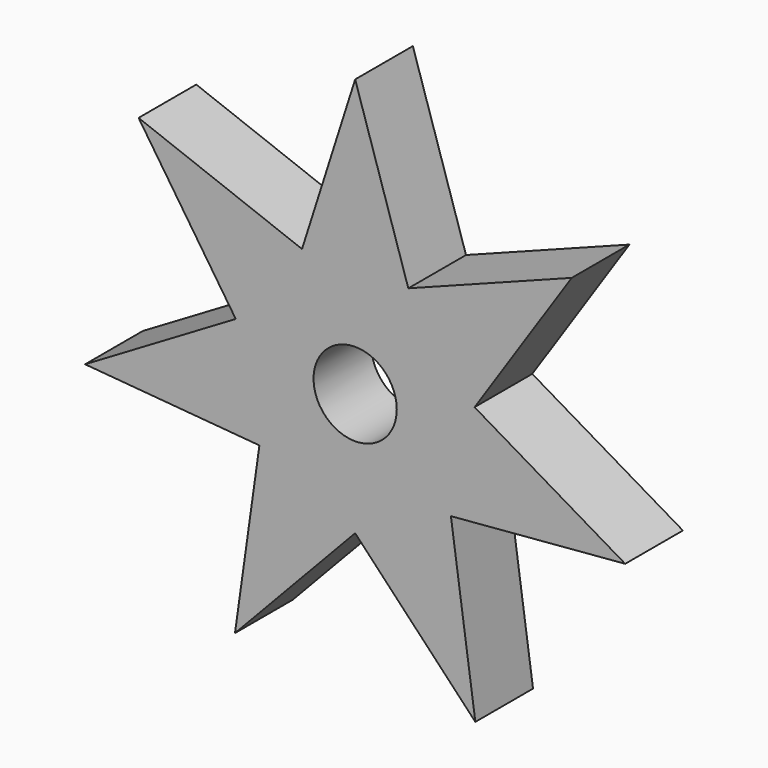
from build123d import *

# Parameters (mm, degrees)
F0_R     = 4.0005
F1_DEPTH = 6.9342


with BuildPart() as f1:
    # F0 (on Front) → F1 (new body)
    with BuildSketch(Plane.XZ):
        with BuildLine():
            ThreePointArc((10.9490814011, 1.8229581763), (11.0620561781, 0.9145890619), (11.0998, 0))
            ThreePointArc((11.0998, 0), (10.5811921219, -3.3531974769), (9.0738295647, -6.3930569426))
            Line((9.0738295647, -6.3930569426), (9.2078226807, -7.3429935574))
            Line((9.2078226807, -7.3429935574), (25.9687935512, -5.9272076659))
            Line((25.9687935512, -5.9272076659), (11.4819670775, 2.6206840586))
            Line((11.4819670775, 2.6206840586), (10.9490814011, 1.8229581763))
        make_face()
        with BuildLine():
            ThreePointArc((10.6557333843, 3.1081998138), (10.8215048396, 2.4699378627), (10.9490814011, 1.8229581763))
            Line((10.9490814011, 1.8229581763), (11.4819670775, 2.6206840586))
            Line((11.4819670775, 2.6206840586), (10.6557333843, 3.1081998138))
        make_face()
        with BuildLine():
            Line((9.2078226807, -7.3429935574), (9.0738295647, -6.3930569426))
            ThreePointArc((9.0738295647, -6.3930569426), (8.6781730891, -6.9206121027), (8.2518866868, -7.4237407113))
            Line((8.2518866868, -7.4237407113), (9.2078226807, -7.3429935574))
        make_face()
        with BuildLine():
            ThreePointArc((5.4013944998, 9.6969323756), (8.6781730891, 6.9206121027), (10.6557333843, 3.1081998138))
            Line((10.6557333843, 3.1081998138), (11.4819670775, 2.6206840586))
            Line((11.4819670775, 2.6206840586), (20.8253555021, 16.6076668269))
            Line((20.8253555021, 16.6076668269), (5.1099560755, 10.6109331263))
            Line((5.1099560755, 10.6109331263), (5.4013944998, 9.6969323756))
        make_face()
        with BuildLine():
            Line((9.2078226807, -7.3429935574), (8.2518866868, -7.4237407113))
            ThreePointArc((8.2518866868, -7.4237407113), (4.8160227275, -10.0005742399), (0.6591470105, -11.0802114266))
            Line((0.6591470105, -11.0802114266), (0, -11.777247255))
            Line((0, -11.777247255), (11.5572003895, -23.9987738932))
            Line((11.5572003895, -23.9987738932), (9.2078226807, -7.3429935574))
        make_face()
        with BuildLine():
            ThreePointArc((4.2136526282, 10.2689187147), (4.8160227275, 10.0005742399), (5.4013944998, 9.6969323756))
            Line((5.4013944998, 9.6969323756), (5.1099560755, 10.6109331263))
            Line((5.1099560755, 10.6109331263), (4.2136526282, 10.2689187147))
        make_face()
        with BuildLine():
            Line((0, -11.777247255), (0.6591470105, -11.0802114266))
            ThreePointArc((0.6591470105, -11.0802114266), (0, -11.0998), (-0.6591470105, -11.0802114266))
            Line((-0.6591470105, -11.0802114266), (0, -11.777247255))
        make_face()
        with BuildLine():
            ThreePointArc((-4.2136526282, 10.2689187147), (0, 11.0998), (4.2136526282, 10.2689187147))
            Line((4.2136526282, 10.2689187147), (5.1099560755, 10.6109331263))
            Line((5.1099560755, 10.6109331263), (0, 26.6366294644))
            Line((0, 26.6366294644), (-5.1099560755, 10.6109331263))
            Line((-5.1099560755, 10.6109331263), (-4.2136526282, 10.2689187147))
        make_face()
        with BuildLine():
            Line((0, -11.777247255), (-0.6591470105, -11.0802114266))
            ThreePointArc((-0.6591470105, -11.0802114266), (-4.8160227275, -10.0005742399), (-8.2518866868, -7.4237407113))
            Line((-8.2518866868, -7.4237407113), (-9.2078226807, -7.3429935574))
            Line((-9.2078226807, -7.3429935574), (-11.5572003895, -23.9987738932))
            Line((-11.5572003895, -23.9987738932), (0, -11.777247255))
        make_face()
        with BuildLine():
            ThreePointArc((-5.4013944998, 9.6969323756), (-4.8160227275, 10.0005742399), (-4.2136526282, 10.2689187147))
            Line((-4.2136526282, 10.2689187147), (-5.1099560755, 10.6109331263))
            Line((-5.1099560755, 10.6109331263), (-5.4013944998, 9.6969323756))
        make_face()
        with BuildLine():
            Line((-9.2078226807, -7.3429935574), (-8.2518866868, -7.4237407113))
            ThreePointArc((-8.2518866868, -7.4237407113), (-8.6781730891, -6.9206121027), (-9.0738295647, -6.3930569426))
            Line((-9.0738295647, -6.3930569426), (-9.2078226807, -7.3429935574))
        make_face()
        with BuildLine():
            ThreePointArc((-10.6557333843, 3.1081998138), (-8.6781730891, 6.9206121027), (-5.4013944998, 9.6969323756))
            Line((-5.4013944998, 9.6969323756), (-5.1099560755, 10.6109331263))
            Line((-5.1099560755, 10.6109331263), (-20.8253555021, 16.6076668269))
            Line((-20.8253555021, 16.6076668269), (-11.4819670775, 2.6206840586))
            Line((-11.4819670775, 2.6206840586), (-10.6557333843, 3.1081998138))
        make_face()
        with BuildLine():
            Line((-9.2078226807, -7.3429935574), (-9.0738295647, -6.3930569426))
            ThreePointArc((-9.0738295647, -6.3930569426), (-10.8215048396, -2.4699378627), (-10.9490814011, 1.8229581763))
            Line((-10.9490814011, 1.8229581763), (-11.4819670775, 2.6206840586))
            Line((-11.4819670775, 2.6206840586), (-25.9687935512, -5.9272076659))
            Line((-25.9687935512, -5.9272076659), (-9.2078226807, -7.3429935574))
        make_face()
        with BuildLine():
            ThreePointArc((-10.9490814011, 1.8229581763), (-10.8215048396, 2.4699378627), (-10.6557333843, 3.1081998138))
            Line((-10.6557333843, 3.1081998138), (-11.4819670775, 2.6206840586))
            Line((-11.4819670775, 2.6206840586), (-10.9490814011, 1.8229581763))
        make_face()
        with BuildLine():
            ThreePointArc((9.0738295647, -6.3930569426), (10.5811921219, -3.3531974769), (11.0998, 0))
            ThreePointArc((11.0998, 0), (11.0620561781, 0.9145890619), (10.9490814011, 1.8229581763))
            ThreePointArc((10.9490814011, 1.8229581763), (10.8215048396, 2.4699378627), (10.6557333843, 3.1081998138))
            ThreePointArc((10.6557333843, 3.1081998138), (8.6781730891, 6.9206121027), (5.4013944998, 9.6969323756))
            ThreePointArc((5.4013944998, 9.6969323756), (4.8160227275, 10.0005742399), (4.2136526282, 10.2689187147))
            ThreePointArc((4.2136526282, 10.2689187147), (0, 11.0998), (-4.2136526282, 10.2689187147))
            ThreePointArc((-4.2136526282, 10.2689187147), (-4.8160227275, 10.0005742399), (-5.4013944998, 9.6969323756))
            ThreePointArc((-5.4013944998, 9.6969323756), (-8.6781730891, 6.9206121027), (-10.6557333843, 3.1081998138))
            ThreePointArc((-10.6557333843, 3.1081998138), (-10.8215048396, 2.4699378627), (-10.9490814011, 1.8229581763))
            ThreePointArc((-10.9490814011, 1.8229581763), (-10.8215048396, -2.4699378627), (-9.0738295647, -6.3930569426))
            ThreePointArc((-9.0738295647, -6.3930569426), (-8.6781730891, -6.9206121027), (-8.2518866868, -7.4237407113))
            ThreePointArc((-8.2518866868, -7.4237407113), (-4.8160227275, -10.0005742399), (-0.6591470105, -11.0802114266))
            ThreePointArc((-0.6591470105, -11.0802114266), (0, -11.0998), (0.6591470105, -11.0802114266))
            ThreePointArc((0.6591470105, -11.0802114266), (4.8160227275, -10.0005742399), (8.2518866868, -7.4237407113))
            ThreePointArc((8.2518866868, -7.4237407113), (8.6781730891, -6.9206121027), (9.0738295647, -6.3930569426))
        make_face()
        Circle(F0_R, mode=Mode.SUBTRACT)
    extrude(amount=F1_DEPTH)


solid = f1.part
